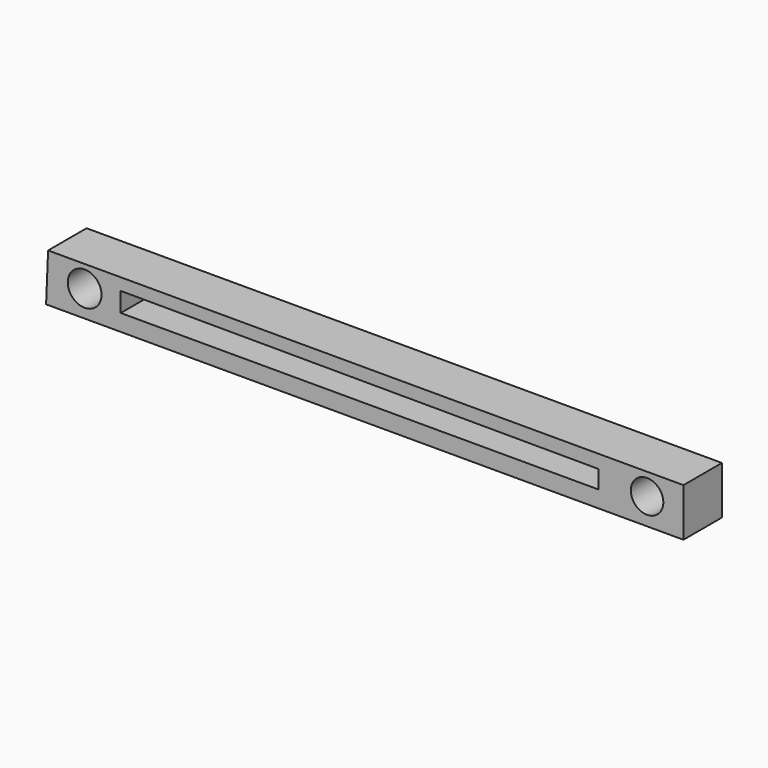
from build123d import *

# Parameters (mm, degrees)
F0_R     = 8.921113
F0_R_2   = 8.583194
F1_DEPTH = 25.4


with BuildPart() as f1:
    # F0 (on Front) → F1 (new body)
    with BuildSketch(Plane.XZ):
        Polygon((229.658276, 25.4), (-105.833308, 25.4), (-106.891638, 0), (229.658276, 0), align=None)
        with Locations((-86.530671, 13.932909)):
            Circle(F0_R, mode=Mode.SUBTRACT)
        Polygon((-67.46459, 8.799734), (-67.46459, 19.066084), (184.794322, 18.332774), (184.794322, 8.799734), align=None, mode=Mode.SUBTRACT)
        with Locations((210.460201, 13.932909)):
            Circle(F0_R_2, mode=Mode.SUBTRACT)
    extrude(amount=F1_DEPTH)


solid = f1.part
